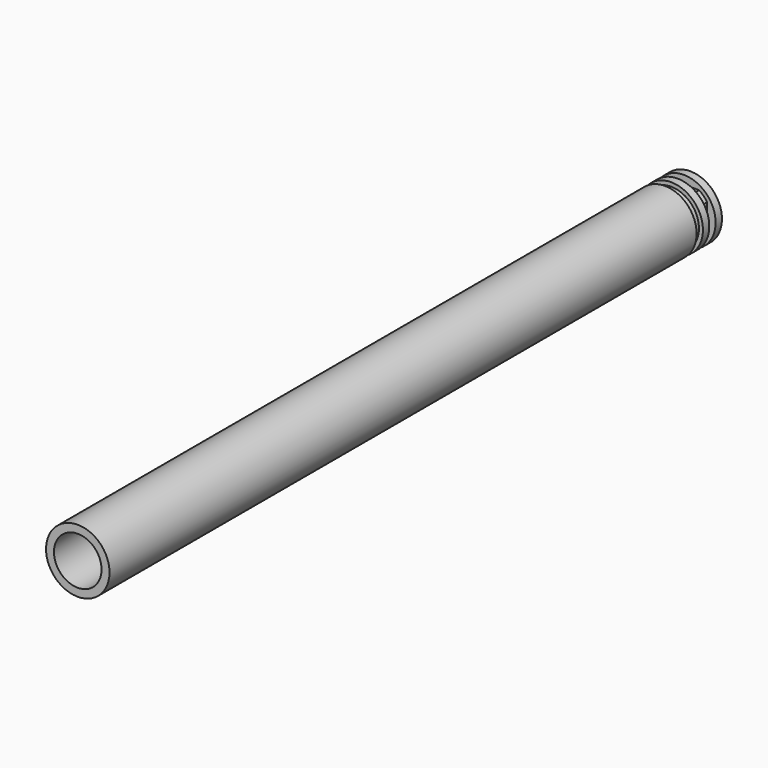
from build123d import *

# Parameters (mm, degrees)
F0_R      = 4
F0_R_2    = 3
F1_DEPTH  = 92.5
F2_R      = 3.5
F2_R_2    = 3
F3_DEPTH  = 1
F4_R      = 4
F4_R_2    = 3
F5_DEPTH  = 1
F6_R      = 3.5
F6_R_2    = 3
F7_DEPTH  = 1
F8_W      = 10.2374576963
F8_H      = 9.6328482032
F8_W_2    = 5.85
F8_H_2    = 5.85
F9_DEPTH  = 1
F10_R     = 4
F10_R_2   = 3
F11_DEPTH = 1


with BuildPart() as f1:
    # F0 (on Front) → F1 (new body)
    with BuildSketch(Plane.XZ):
        Circle(F0_R)
        Circle(F0_R_2, mode=Mode.SUBTRACT)
    extrude(amount=F1_DEPTH)

    # F2 (on face) → F3 (join)
    with BuildSketch(Plane(origin=(0, 0, 0), x_dir=(-1, 0, 0), z_dir=(0, 1, 0))):
        Circle(F2_R)
        Circle(F2_R_2, mode=Mode.SUBTRACT)
    extrude(amount=F3_DEPTH)

    # F4 (on face) → F5 (join)
    with BuildSketch(Plane(origin=(0, 1, 0), x_dir=(-1, 0, 0), z_dir=(0, 1, 0))):
        Circle(F4_R)
        Circle(F4_R_2, mode=Mode.SUBTRACT)
    extrude(amount=F5_DEPTH)

    # F6 (on face) → F7 (join)
    with BuildSketch(Plane(origin=(0, 2, 0), x_dir=(-1, 0, 0), z_dir=(0, 1, 0))):
        Circle(F6_R)
        Circle(F6_R_2, mode=Mode.SUBTRACT)
    extrude(amount=F7_DEPTH)

    # F8 (on face) → F9 (cut)
    with BuildSketch(Plane(origin=(0, 3, 0), x_dir=(-1, 0, 0), z_dir=(0, 1, 0))):
        with Locations((0.2122113947, -0.0024125911)):
            Rectangle(F8_W, F8_H)
        Rectangle(F8_W_2, F8_H_2, mode=Mode.SUBTRACT)
    extrude(amount=-F9_DEPTH, mode=Mode.SUBTRACT)

    # F10 (on face) → F11 (join)
    with BuildSketch(Plane(origin=(0, 3, 0), x_dir=(-1, 0, 0), z_dir=(0, 1, 0))):
        Circle(F10_R)
        Circle(F10_R_2, mode=Mode.SUBTRACT)
    extrude(amount=F11_DEPTH)


solid = f1.part
